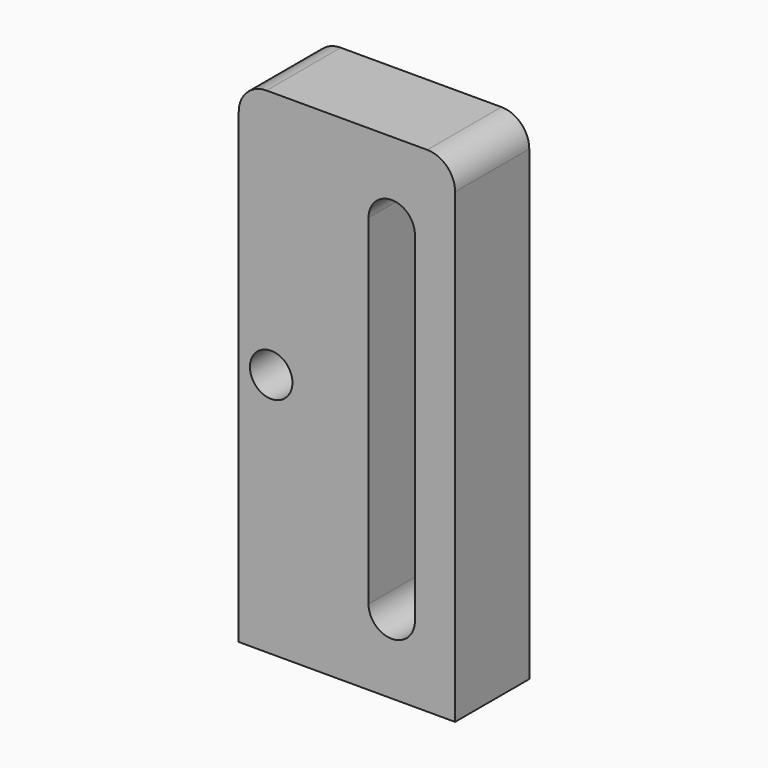
from build123d import *

# Parameters (mm, degrees)
PAD014_DEPTH           = 2
SKETCH024_R            = 1.375
PAD011_DEPTH           = 6
CUT045_PLACEMENT_ANGLE = 180


with BuildPart() as slotscrew001:
    # Sketch027 → Pad014 (new body)
    with BuildSketch(Plane.XZ):
        with BuildLine():
            ThreePointArc((8.9, 35), (5.9, 38), (2.9, 35))
            Line((2.9, 35), (2.9, 13))
            ThreePointArc((2.9, 13), (5.9, 10), (8.9, 13))
            Line((8.9, 13), (8.9, 35))
        make_face()
    extrude(amount=PAD014_DEPTH)


with BuildPart() as slotscrew001_1:
    # Body013 placement: moved
    add(slotscrew001.part.moved(Location((-0.013, -4.05, -39.977))))


with BuildPart() as base001:
    # Sketch024 → Pad011 (new body)
    with BuildSketch(Plane.XZ):
        with BuildLine():
            Line((-4, 0), (10, 0))
            Line((10, 0), (10, -30.2))
            ThreePointArc((8.2, -32), (9.472792, -31.472792), (10, -30.2))
            Line((8.2, -32), (-2.2, -32))
            ThreePointArc((-4, -30.2), (-3.472792, -31.472792), (-2.2, -32))
            Line((-4, -30.2), (-4, 0))
        make_face()
        with Locations((-1.9, -15.9)):
            Circle(SKETCH024_R, mode=Mode.SUBTRACT)
        with BuildLine():
            ThreePointArc((4.4, -26.9), (5.9, -28.4), (7.4, -26.9))
            Line((7.4, -26.9), (7.4, -4.9))
            ThreePointArc((7.4, -4.9), (5.9, -3.4), (4.4, -4.9))
            Line((4.4, -4.9), (4.4, -26.9))
        make_face(mode=Mode.SUBTRACT)
    extrude(amount=PAD011_DEPTH)

    # Cut045: cut slotscrew001
    add(slotscrew001_1.part, mode=Mode.SUBTRACT)


with BuildPart() as base001_1:
    # Cut045 placement: moved
    add(base001.part.moved(Location((0, 0.008, 7.997))).rotate(Axis((0, 0.008, 7.997), (1, 0, 0)), CUT045_PLACEMENT_ANGLE))


solid = base001_1.part
